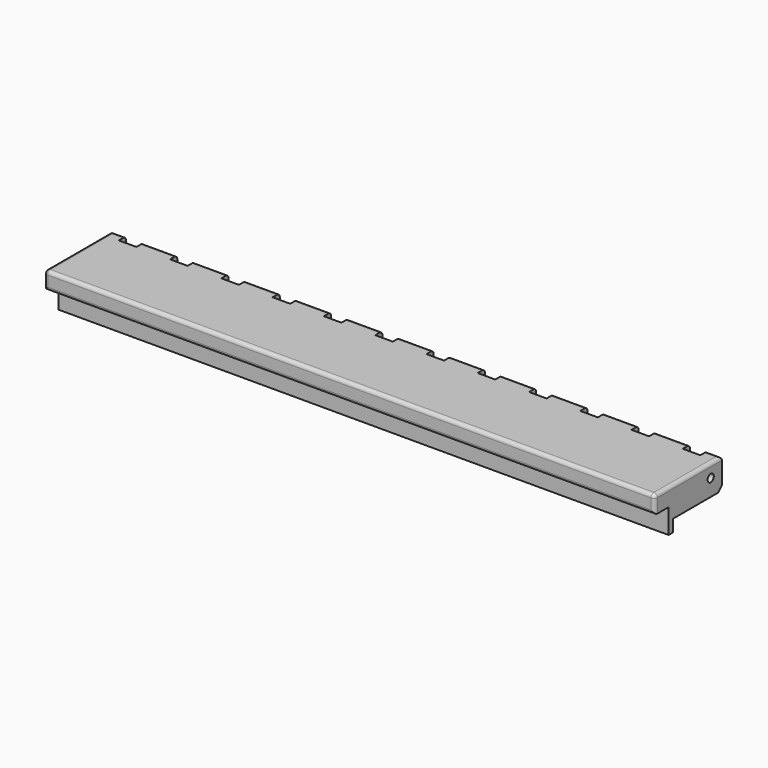
from build123d import *

# Parameters (mm, degrees)
SKETCH_W        = 174
SKETCH_H        = 19
PAD_DEPTH       = 8.55
SKETCH001_W     = 170
SKETCH001_H     = 16
POCKET_DEPTH    = 7.3
SKETCH002_R     = 1.1
HOLE_DEPTH      = 174.001
CHAMFER_SIZE    = 1.4
SKETCH003_W     = 174
SKETCH003_H     = 1.5
PAD001_DEPTH    = 3.45
SKETCH004_W     = 174
SKETCH004_H     = 5
PAD002_DEPTH    = 5
FILLET_R        = 1
SKETCH005_W     = 5
SKETCH005_H     = 10.149898
SKETCH005_H_2   = 10.668564
SKETCH005_H_3   = 8.55
SKETCH005_H_4   = 9.73434
SKETCH005_H_5   = 10.175496
POCKET001_DEPTH = 20


with BuildPart() as part:
    # Sketch → Pad (new body)
    with BuildSketch(Plane.XY):
        with Locations((0, -0.5)):
            Rectangle(SKETCH_W, SKETCH_H)
    extrude(amount=PAD_DEPTH)

    # Sketch001 → Pocket (cut)
    with BuildSketch(Plane(origin=(0, 0, 0), x_dir=(1, 0, 0), z_dir=(0, 0, -1))):
        with Locations((0, 0.5)):
            Rectangle(SKETCH001_W, SKETCH001_H)
    extrude(amount=-POCKET_DEPTH, mode=Mode.SUBTRACT)

    # Sketch002 (on Face3 of Pocket) → Hole (cut, through all)
    with BuildSketch(Plane.YZ.offset(87)):
        with Locations((5, 4.75)):
            Circle(SKETCH002_R)
    extrude(amount=-HOLE_DEPTH, mode=Mode.SUBTRACT)

    # Chamfer
    chamfer_edges = [part.edges().sort_by_distance(p)[0] for p in [
        (0, 9, 0),
    ]]
    chamfer(chamfer_edges, length=CHAMFER_SIZE)

    # Sketch003 (on Face6 of Chamfer) → Pad001 (join)
    with BuildSketch(Plane(origin=(0, 0, 0), x_dir=(1, 0, 0), z_dir=(0, 0, -1))):
        with Locations((0, 9.25)):
            Rectangle(SKETCH003_W, SKETCH003_H)
    extrude(amount=PAD001_DEPTH)

    # Sketch004 (on Face8 of Pad001) → Pad002 (join)
    with BuildSketch(Plane.XZ.offset(10)):
        with Locations((0, 6.05)):
            Rectangle(SKETCH004_W, SKETCH004_H)
    extrude(amount=PAD002_DEPTH)

    # Fillet
    fillet_edges = [part.edges().sort_by_distance(p)[0] for p in [
        (-87, -12.5, 8.55),
        (-87, -0.5, 8.55),
        (87, -0.5, 8.55),
        (87, -12.5, 8.55),
        (0, 9, 8.55),
        (0, -15, 8.55),
        (87, -15, 6.05),
        (0, -15, 3.55),
        (-87, -15, 6.05),
    ]]
    fillet(fillet_edges, radius=FILLET_R)

    # Sketch005 (on Face12 of Fillet) → Pocket001 (cut)
    with BuildSketch(Plane.XY.offset(8.55)):
        with Locations((-7.3085, 11.524949)):
            Rectangle(SKETCH005_W, SKETCH005_H)
        with Locations((7.3085, 11.784282)):
            Rectangle(SKETCH005_W, SKETCH005_H_2)
        with Locations((-21.9255, 10.725)):
            Rectangle(SKETCH005_W, SKETCH005_H_3)
        with Locations((-36.5425, 10.725)):
            Rectangle(SKETCH005_W, SKETCH005_H_3)
        with Locations((-51.1595, 10.725)):
            Rectangle(SKETCH005_W, SKETCH005_H_3)
        with Locations((-65.7765, 10.725)):
            Rectangle(SKETCH005_W, SKETCH005_H_3)
        with Locations((-80.3935, 10.725)):
            Rectangle(SKETCH005_W, SKETCH005_H_3)
        with Locations((21.9255, 11.31717)):
            Rectangle(SKETCH005_W, SKETCH005_H_4)
        with Locations((36.5425, 11.537748)):
            Rectangle(SKETCH005_W, SKETCH005_H_5)
        with Locations((51.1595, 10.725)):
            Rectangle(SKETCH005_W, SKETCH005_H_3)
        with Locations((65.7765, 10.725)):
            Rectangle(SKETCH005_W, SKETCH005_H_3)
        with Locations((80.3935, 10.725)):
            Rectangle(SKETCH005_W, SKETCH005_H_3)
    extrude(amount=-POCKET001_DEPTH, mode=Mode.SUBTRACT)


with BuildPart() as part_1:
    # Body placement: moved
    add(part.part.moved(Location((0, -5, -4.75))))


solid = part_1.part
